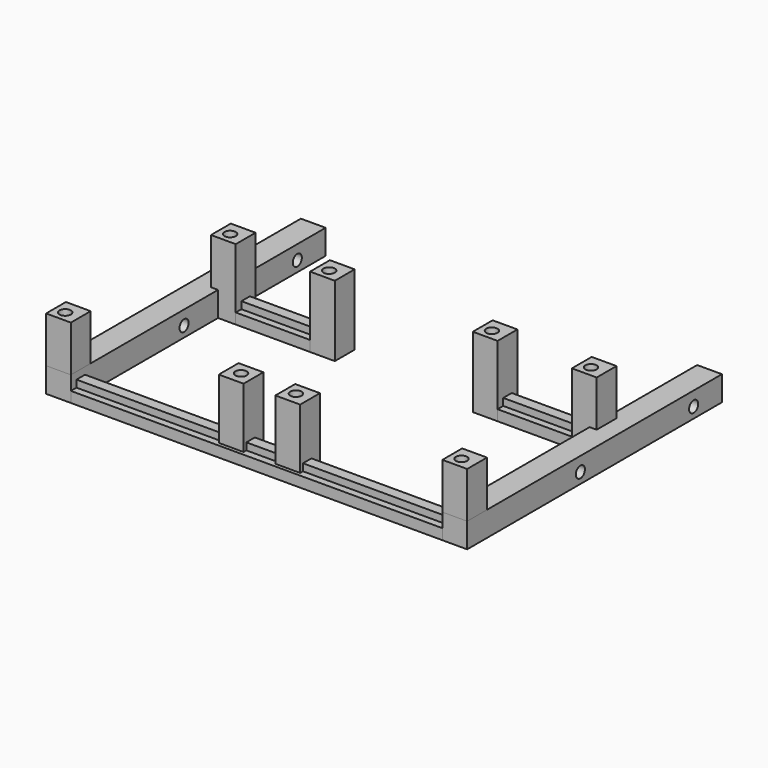
from build123d import *

# Parameters (mm, degrees)
BOX_W                   = 119
BOX_H                   = 7
BOX_DEPTH               = 3
BOX001_W                = 119
BOX001_H                = 3
BOX001_DEPTH            = 3
BOX010_W                = 40
BOX010_H                = 3
BOX010_DEPTH            = 3
BOX011_W                = 40
BOX011_H                = 7
BOX011_DEPTH            = 3
BOX012_W                = 40
BOX012_H                = 3
BOX012_DEPTH            = 3
BOX013_W                = 40
BOX013_H                = 7
BOX013_DEPTH            = 3
CYLINDER_R              = 1.6
CYLINDER_DEPTH          = 20
BOX002_W                = 7
BOX002_H                = 7
BOX002_DEPTH            = 20
CYLINDER004_R           = 1.6
CYLINDER004_DEPTH       = 20
BOX014_W                = 7
BOX014_H                = 7
BOX014_DEPTH            = 20
CYLINDER002_R           = 1.6
CYLINDER002_DEPTH       = 20
BOX015_W                = 7
BOX015_H                = 7
BOX015_DEPTH            = 20
CYLINDER001_R           = 1.6
CYLINDER001_DEPTH       = 20
BOX016_W                = 7
BOX016_H                = 7
BOX016_DEPTH            = 20
CYLINDER003_R           = 1.6
CYLINDER003_DEPTH       = 20
BOX017_W                = 7
BOX017_H                = 7
BOX017_DEPTH            = 20
CYLINDER006_R           = 1.6
CYLINDER006_DEPTH       = 20
BOX005_W                = 7
BOX005_H                = 7
BOX005_DEPTH            = 20
CYLINDER007_R           = 1.6
CYLINDER007_DEPTH       = 20
BOX004_W                = 7
BOX004_H                = 7
BOX004_DEPTH            = 20
CYLINDER005_R           = 1.6
CYLINDER005_DEPTH       = 20
BOX003_W                = 7
BOX003_H                = 7
BOX003_DEPTH            = 20
CYLINDER009_R           = 1.6
CYLINDER009_DEPTH       = 20
CYLINDER009_PITCH_ANGLE = 90
CYLINDER008_R           = 1.6
CYLINDER008_DEPTH       = 20
CYLINDER008_PITCH_ANGLE = 90
BOX006_W                = 90
BOX006_H                = 7
BOX006_DEPTH            = 7
BOX006_PLACEMENT_ANGLE  = 90
CYLINDER011_R           = 1.6
CYLINDER011_DEPTH       = 20
CYLINDER011_PITCH_ANGLE = 90
CYLINDER010_R           = 1.6
CYLINDER010_DEPTH       = 20
CYLINDER010_PITCH_ANGLE = 90
BOX007_W                = 90
BOX007_H                = 7
BOX007_DEPTH            = 7
BOX007_PLACEMENT_ANGLE  = 90


with BuildPart() as cube:
    # Box → Box (new body)
    with BuildSketch(Plane.XY):
        with Locations((59.5, 3.5)):
            Rectangle(BOX_W, BOX_H)
    extrude(amount=BOX_DEPTH)


with BuildPart() as cube001:
    # Box001 → Box001 (new body)
    with BuildSketch(Plane(origin=(0, 2, 2), x_dir=(1, 0, 0), z_dir=(0, 0, 1))):
        with Locations((59.5, 1.5)):
            Rectangle(BOX001_W, BOX001_H)
    extrude(amount=BOX001_DEPTH)


with BuildPart() as cube010:
    # Box010 → Box010 (new body)
    with BuildSketch(Plane(origin=(0, 54, 2), x_dir=(1, 0, 0), z_dir=(0, 0, 1))):
        with Locations((20, 1.5)):
            Rectangle(BOX010_W, BOX010_H)
    extrude(amount=BOX010_DEPTH)


with BuildPart() as cube011:
    # Box011 → Box011 (new body)
    with BuildSketch(Plane(origin=(0, 52, 0), x_dir=(1, 0, 0), z_dir=(0, 0, 1))):
        with Locations((20, 3.5)):
            Rectangle(BOX011_W, BOX011_H)
    extrude(amount=BOX011_DEPTH)


with BuildPart() as cube012:
    # Box012 → Box012 (new body)
    with BuildSketch(Plane(origin=(79, 54, 2), x_dir=(1, 0, 0), z_dir=(0, 0, 1))):
        with Locations((20, 1.5)):
            Rectangle(BOX012_W, BOX012_H)
    extrude(amount=BOX012_DEPTH)


with BuildPart() as cube013:
    # Box013 → Box013 (new body)
    with BuildSketch(Plane(origin=(79, 52, 0), x_dir=(1, 0, 0), z_dir=(0, 0, 1))):
        with Locations((20, 3.5)):
            Rectangle(BOX013_W, BOX013_H)
    extrude(amount=BOX013_DEPTH)


with BuildPart() as cylindre:
    # Cylinder → Cylinder (new body)
    with BuildSketch(Plane(origin=(3, 3, 10), x_dir=(1, 0, 0), z_dir=(0, 0, 1))):
        Circle(CYLINDER_R)
    extrude(amount=CYLINDER_DEPTH)


with BuildPart() as cut:
    # Box002 → Box002 (new body)
    with BuildSketch(Plane.XY):
        with Locations((3.5, 3.5)):
            Rectangle(BOX002_W, BOX002_H)
    extrude(amount=BOX002_DEPTH)

    # Cut: cut Cylindre
    add(cylindre.part, mode=Mode.SUBTRACT)


with BuildPart() as cylindre004:
    # Cylinder004 → Cylinder004 (new body)
    with BuildSketch(Plane(origin=(110, 55, 10), x_dir=(1, 0, 0), z_dir=(0, 0, 1))):
        Circle(CYLINDER004_R)
    extrude(amount=CYLINDER004_DEPTH)


with BuildPart() as cut001:
    # Box014 → Box014 (new body)
    with BuildSketch(Plane(origin=(107, 52, 0), x_dir=(1, 0, 0), z_dir=(0, 0, 1))):
        with Locations((3.5, 3.5)):
            Rectangle(BOX014_W, BOX014_H)
    extrude(amount=BOX014_DEPTH)

    # Cut001: cut Cylindre004
    add(cylindre004.part, mode=Mode.SUBTRACT)


with BuildPart() as cylindre002:
    # Cylinder002 → Cylinder002 (new body)
    with BuildSketch(Plane(origin=(36, 55, 10), x_dir=(1, 0, 0), z_dir=(0, 0, 1))):
        Circle(CYLINDER002_R)
    extrude(amount=CYLINDER002_DEPTH)


with BuildPart() as cut002:
    # Box015 → Box015 (new body)
    with BuildSketch(Plane(origin=(33, 52, 0), x_dir=(1, 0, 0), z_dir=(0, 0, 1))):
        with Locations((3.5, 3.5)):
            Rectangle(BOX015_W, BOX015_H)
    extrude(amount=BOX015_DEPTH)

    # Cut002: cut Cylindre002
    add(cylindre002.part, mode=Mode.SUBTRACT)


with BuildPart() as cylindre001:
    # Cylinder001 → Cylinder001 (new body)
    with BuildSketch(Plane(origin=(8, 55, 10), x_dir=(1, 0, 0), z_dir=(0, 0, 1))):
        Circle(CYLINDER001_R)
    extrude(amount=CYLINDER001_DEPTH)


with BuildPart() as cut003:
    # Box016 → Box016 (new body)
    with BuildSketch(Plane(origin=(5, 52, 0), x_dir=(1, 0, 0), z_dir=(0, 0, 1))):
        with Locations((3.5, 3.5)):
            Rectangle(BOX016_W, BOX016_H)
    extrude(amount=BOX016_DEPTH)

    # Cut003: cut Cylindre001
    add(cylindre001.part, mode=Mode.SUBTRACT)


with BuildPart() as cylindre003:
    # Cylinder003 → Cylinder003 (new body)
    with BuildSketch(Plane(origin=(82, 55, 10), x_dir=(1, 0, 0), z_dir=(0, 0, 1))):
        Circle(CYLINDER003_R)
    extrude(amount=CYLINDER003_DEPTH)


with BuildPart() as cut004:
    # Box017 → Box017 (new body)
    with BuildSketch(Plane(origin=(79, 52, 0), x_dir=(1, 0, 0), z_dir=(0, 0, 1))):
        with Locations((3.5, 3.5)):
            Rectangle(BOX017_W, BOX017_H)
    extrude(amount=BOX017_DEPTH)

    # Cut004: cut Cylindre003
    add(cylindre003.part, mode=Mode.SUBTRACT)


with BuildPart() as cylindre006:
    # Cylinder006 → Cylinder006 (new body)
    with BuildSketch(Plane(origin=(67, 4.5, 10), x_dir=(1, 0, 0), z_dir=(0, 0, 1))):
        Circle(CYLINDER006_R)
    extrude(amount=CYLINDER006_DEPTH)


with BuildPart() as cut005:
    # Box005 → Box005 (new body)
    with BuildSketch(Plane(origin=(64, 1, 0), x_dir=(1, 0, 0), z_dir=(0, 0, 1))):
        with Locations((3.5, 3.5)):
            Rectangle(BOX005_W, BOX005_H)
    extrude(amount=BOX005_DEPTH)

    # Cut005: cut Cylindre006
    add(cylindre006.part, mode=Mode.SUBTRACT)


with BuildPart() as cylindre007:
    # Cylinder007 → Cylinder007 (new body)
    with BuildSketch(Plane(origin=(51.5, 4.5, 10), x_dir=(1, 0, 0), z_dir=(0, 0, 1))):
        Circle(CYLINDER007_R)
    extrude(amount=CYLINDER007_DEPTH)


with BuildPart() as cut006:
    # Box004 → Box004 (new body)
    with BuildSketch(Plane(origin=(48, 1, 0), x_dir=(1, 0, 0), z_dir=(0, 0, 1))):
        with Locations((3.5, 3.5)):
            Rectangle(BOX004_W, BOX004_H)
    extrude(amount=BOX004_DEPTH)

    # Cut006: cut Cylindre007
    add(cylindre007.part, mode=Mode.SUBTRACT)


with BuildPart() as cylindre005:
    # Cylinder005 → Cylinder005 (new body)
    with BuildSketch(Plane(origin=(115, 3, 10), x_dir=(1, 0, 0), z_dir=(0, 0, 1))):
        Circle(CYLINDER005_R)
    extrude(amount=CYLINDER005_DEPTH)


with BuildPart() as cut007:
    # Box003 → Box003 (new body)
    with BuildSketch(Plane(origin=(112, 0, 0), x_dir=(1, 0, 0), z_dir=(0, 0, 1))):
        with Locations((3.5, 3.5)):
            Rectangle(BOX003_W, BOX003_H)
    extrude(amount=BOX003_DEPTH)

    # Cut007: cut Cylindre005
    add(cylindre005.part, mode=Mode.SUBTRACT)


with BuildPart() as cylindre009:
    # Cylinder009 → Cylinder009 (new body)
    with BuildSketch(Plane.XY):
        Circle(CYLINDER009_R)
    extrude(amount=CYLINDER009_DEPTH)


with BuildPart() as cylindre009_1:
    # Cylinder009 pitch: moved
    add(cylindre009.part.rotate(Axis((0, 0, 0), (0, 1, 0)), CYLINDER009_PITCH_ANGLE))


with BuildPart() as cylindre009_2:
    # Cylinder009 placement: moved
    add(cylindre009_1.part.moved(Location((-4, 80, 3))))


with BuildPart() as cylindre008:
    # Cylinder008 → Cylinder008 (new body)
    with BuildSketch(Plane.XY):
        Circle(CYLINDER008_R)
    extrude(amount=CYLINDER008_DEPTH)


with BuildPart() as cylindre008_1:
    # Cylinder008 pitch: moved
    add(cylindre008.part.rotate(Axis((0, 0, 0), (0, 1, 0)), CYLINDER008_PITCH_ANGLE))


with BuildPart() as cylindre008_2:
    # Cylinder008 placement: moved
    add(cylindre008_1.part.moved(Location((-4, 40, 3))))


with BuildPart() as cut009:
    # Box006 → Box006 (new body)
    with BuildSketch(Plane.XY):
        with Locations((45, 3.5)):
            Rectangle(BOX006_W, BOX006_H)
    extrude(amount=BOX006_DEPTH)


with BuildPart() as cut009_1:
    # Box006 placement: moved
    add(cut009.part.moved(Location((7, 0, 0))).rotate(Axis((7, 0, 0), (0, 0, 1)), BOX006_PLACEMENT_ANGLE))

    # Cut008: cut Cylindre008
    add(cylindre008_2.part, mode=Mode.SUBTRACT)

    # Cut009: cut Cylindre009
    add(cylindre009_2.part, mode=Mode.SUBTRACT)


with BuildPart() as cylindre011:
    # Cylinder011 → Cylinder011 (new body)
    with BuildSketch(Plane.XY):
        Circle(CYLINDER011_R)
    extrude(amount=CYLINDER011_DEPTH)


with BuildPart() as cylindre011_1:
    # Cylinder011 pitch: moved
    add(cylindre011.part.rotate(Axis((0, 0, 0), (0, 1, 0)), CYLINDER011_PITCH_ANGLE))


with BuildPart() as cylindre011_2:
    # Cylinder011 placement: moved
    add(cylindre011_1.part.moved(Location((105, 80, 3))))


with BuildPart() as cylindre010:
    # Cylinder010 → Cylinder010 (new body)
    with BuildSketch(Plane.XY):
        Circle(CYLINDER010_R)
    extrude(amount=CYLINDER010_DEPTH)


with BuildPart() as cylindre010_1:
    # Cylinder010 pitch: moved
    add(cylindre010.part.rotate(Axis((0, 0, 0), (0, 1, 0)), CYLINDER010_PITCH_ANGLE))


with BuildPart() as cylindre010_2:
    # Cylinder010 placement: moved
    add(cylindre010_1.part.moved(Location((105, 40, 3))))


with BuildPart() as cut011:
    # Box007 → Box007 (new body)
    with BuildSketch(Plane.XY):
        with Locations((45, 3.5)):
            Rectangle(BOX007_W, BOX007_H)
    extrude(amount=BOX007_DEPTH)


with BuildPart() as cut011_1:
    # Box007 placement: moved
    add(cut011.part.moved(Location((119, 0, 0))).rotate(Axis((119, 0, 0), (0, 0, 1)), BOX007_PLACEMENT_ANGLE))

    # Cut010: cut Cylindre010
    add(cylindre010_2.part, mode=Mode.SUBTRACT)

    # Cut011: cut Cylindre011
    add(cylindre011_2.part, mode=Mode.SUBTRACT)


solid = Compound([cube.part, cube001.part, cube010.part, cube011.part, cube012.part, cube013.part, cut.part, cut001.part, cut002.part, cut003.part, cut004.part, cut005.part, cut006.part, cut007.part, cut009_1.part, cut011_1.part])
